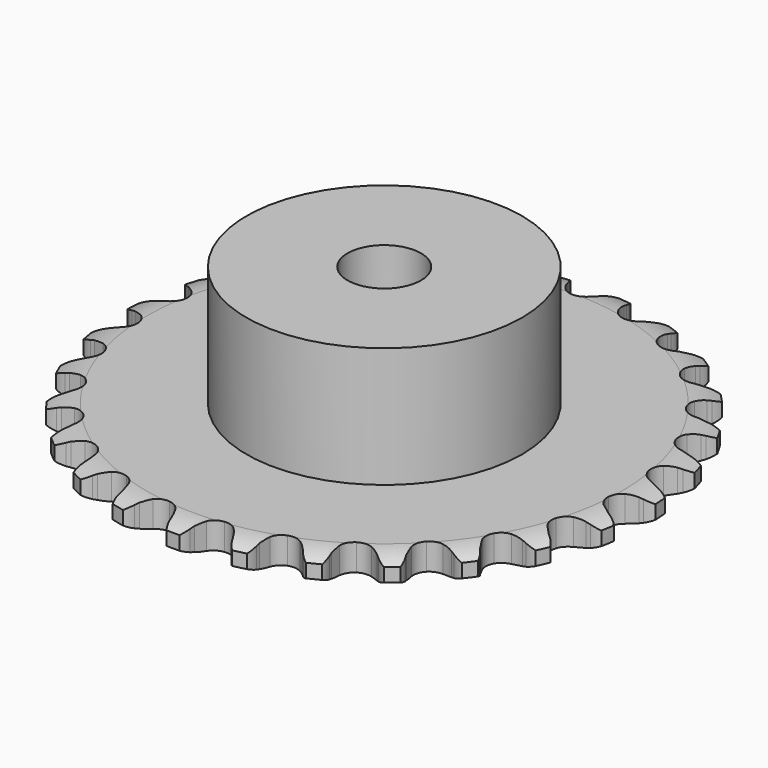
from build123d import *

# Parameters (mm, degrees)
PAD_DEPTH         = 2.9
SKETCH001_R       = 15
PAD001_DEPTH      = 16
SKETCH002_R       = 4
POCKET_DEPTH      = 0.001
POCKET_DEPTH_BACK = -16.001


with BuildPart() as part:
    # Sprocket → Pad (new body)
    with BuildSketch(Plane.XY):
        with BuildLine():
            ThreePointArc((-3.414532, 29.213188), (-2.622033, 28.621968), (-2.098723, 27.783074))
            Line((-2.098723, 27.783074), (-1.938021, 27.370818))
            ThreePointArc((-1.938021, 27.370818), (-1.680886, 26.826297), (-1.350796, 26.322648))
            ThreePointArc((-1.350796, 26.322648), (-0.753962, 25.829197), (0, 25.652434))
            ThreePointArc((0, 25.652434), (0.753962, 25.829197), (1.350796, 26.322648))
            ThreePointArc((1.350796, 26.322648), (1.680886, 26.826297), (1.938021, 27.370818))
            Line((1.938021, 27.370818), (2.098723, 27.783074))
            ThreePointArc((2.098723, 27.783074), (2.622033, 28.621968), (3.414532, 29.213188))
            ThreePointArc((3.414532, 29.213188), (4.049325, 28.455142), (4.365066, 27.518177))
            Line((4.365066, 27.518177), (4.426363, 27.079972))
            ThreePointArc((4.426363, 27.079972), (4.550992, 26.490829), (4.756036, 25.924633))
            ThreePointArc((4.756036, 25.924633), (5.222984, 25.306843), (5.915858, 24.960969))
            ThreePointArc((5.915858, 24.960969), (6.690262, 24.959092), (7.384805, 25.301603))
            Line((7.384805, 25.301603), (8.197927, 26.186095))
            ThreePointArc((8.197927, 26.186095), (8.319001, 26.371346), (8.449369, 26.550179))
            ThreePointArc((8.449369, 26.550179), (9.152036, 27.245777), (10.059518, 27.638298))
            ThreePointArc((10.059518, 27.638298), (10.502382, 26.754291), (10.593534, 25.769767))
            Line((10.593534, 25.769767), (10.552121, 25.329238))
            ThreePointArc((10.552121, 25.329238), (10.537526, 24.727235), (10.606468, 24.129013))
            ThreePointArc((10.606468, 24.129013), (10.918357, 23.420191), (11.512791, 22.923852))
            ThreePointArc((11.512791, 22.923852), (12.265888, 22.743436), (13.020698, 22.916541))
            Line((13.020698, 22.916541), (14.01588, 23.589674))
            ThreePointArc((14.01588, 23.589674), (14.176412, 23.74201), (14.344508, 23.885957))
            ThreePointArc((14.344508, 23.885957), (15.18865, 24.400759), (16.162192, 24.573419))
            ThreePointArc((16.162192, 24.573419), (16.389253, 23.61111), (16.250901, 22.632103))
            Line((16.250901, 22.632103), (16.109012, 22.212999))
            ThreePointArc((16.109012, 22.212999), (15.955978, 21.630588), (15.885103, 21.032593))
            ThreePointArc((15.885103, 21.032593), (16.025119, 20.27095), (16.489067, 19.650904))
            ThreePointArc((16.489067, 19.650904), (17.180256, 19.301675), (17.954642, 19.296044))
            Line((17.954642, 19.296044), (19.078233, 19.721527))
            ThreePointArc((19.078233, 19.721527), (19.26957, 19.832735), (19.466331, 19.934037))
            ThreePointArc((19.466331, 19.934037), (20.40644, 20.240289), (21.393559, 20.183782))
            ThreePointArc((21.393559, 20.183782), (21.392575, 19.195048), (21.032178, 18.274336))
            Line((21.032178, 18.274336), (20.797461, 17.899251))
            ThreePointArc((20.797461, 17.899251), (20.514239, 17.367831), (20.307367, 16.8023))
            ThreePointArc((20.307367, 16.8023), (20.267963, 16.028897), (20.576412, 15.318571))
            ThreePointArc((20.576412, 15.318571), (21.168433, 14.819356), (21.920646, 14.635291))
            Line((21.920646, 14.635291), (23.112074, 14.790187))
            ThreePointArc((23.112074, 14.790187), (23.323899, 14.854272), (23.538719, 14.907467))
            ThreePointArc((23.538719, 14.907467), (24.524114, 14.988661), (25.471593, 14.706031))
            ThreePointArc((25.471593, 14.706031), (25.242618, 13.744175), (24.679605, 12.931395))
            Line((24.679605, 12.931395), (24.364715, 12.620549))
            ThreePointArc((24.364715, 12.620549), (23.966573, 12.16877), (23.634857, 11.666191))
            ThreePointArc((23.634857, 11.666191), (23.418155, 10.922722), (23.554478, 10.16041))
            ThreePointArc((23.554478, 10.16041), (24.015414, 9.538122), (24.704902, 9.185546))
            Line((24.704902, 9.185546), (25.899937, 9.061505))
            ThreePointArc((25.899937, 9.061505), (26.120832, 9.075012), (26.342128, 9.077232))
            ThreePointArc((26.342128, 9.077232), (27.319686, 8.92899), (28.176447, 8.435474))
            ThreePointArc((28.176447, 8.435474), (27.731825, 7.552351), (26.996548, 6.891319))
            Line((26.996548, 6.891319), (26.618459, 6.661471))
            ThreePointArc((26.618459, 6.661471), (26.126862, 6.313687), (25.688185, 5.901154))
            ThreePointArc((25.688185, 5.901154), (25.305869, 5.227701), (25.262716, 4.454498))
            ThreePointArc((25.262716, 4.454498), (25.567717, 3.742685), (26.157311, 3.240606))
            Line((26.157311, 3.240606), (27.291527, 2.844314))
            ThreePointArc((27.291527, 2.844314), (27.509583, 2.806516), (27.725426, 2.757642))
            ThreePointArc((27.725426, 2.757642), (28.642447, 2.387954), (29.362302, 1.710159))
            ThreePointArc((29.362302, 1.710159), (28.726002, 0.953377), (27.8581, 0.47973))
            Line((27.8581, 0.47973), (27.437196, 0.343271))
            ThreePointArc((27.437196, 0.343271), (26.878646, 0.118232), (26.356656, -0.182016))
            ThreePointArc((26.356656, -0.182016), (25.829337, -0.749148), (25.609034, -1.491556))
            ThreePointArc((25.609034, -1.491556), (25.741659, -2.254521), (26.199572, -2.879036))
            Line((26.199572, -2.879036), (27.211825, -3.526214))
            ThreePointArc((27.211825, -3.526214), (27.415286, -3.613281), (27.61404, -3.710614))
            ThreePointArc((27.61404, -3.710614), (28.421087, -4.281816), (28.965227, -5.107351))
            ThreePointArc((28.965227, -5.107351), (28.171553, -5.696993), (27.217814, -5.957721))
            Line((27.217814, -5.957721), (26.776787, -5.993435))
            ThreePointArc((26.776787, -5.993435), (26.181394, -6.083598), (25.604233, -6.255372))
            ThreePointArc((25.604233, -6.255372), (24.960338, -6.685609), (24.574762, -7.357201))
            ThreePointArc((24.574762, -7.357201), (24.527861, -8.130185), (24.829408, -8.843469))
            Line((24.829408, -8.843469), (25.665125, -9.706643))
            ThreePointArc((25.665125, -9.706643), (25.843023, -9.838284), (26.013973, -9.97883))
            ThreePointArc((26.013973, -9.97883), (26.667538, -10.720753), (27.006629, -11.649523))
            ThreePointArc((27.006629, -11.649523), (26.098368, -12.040237), (25.11021, -12.07399))
            Line((25.11021, -12.07399), (24.672834, -12.007033))
            ThreePointArc((24.672834, -12.007033), (24.072697, -11.957459), (23.47148, -11.991501))
            ThreePointArc((23.47148, -11.991501), (22.745722, -12.261648), (22.215659, -12.826217))
            ThreePointArc((22.215659, -12.826217), (21.99176, -13.567549), (22.120684, -14.331147))
            Line((22.120684, -14.331147), (22.734813, -15.363784))
            ThreePointArc((22.734813, -15.363784), (22.877557, -15.532903), (23.011487, -15.709085))
            ThreePointArc((23.011487, -15.709085), (23.476335, -16.581731), (23.592097, -17.563666))
            ThreePointArc((23.592097, -17.563666), (22.618213, -17.734389), (21.648907, -17.539347))
            Line((21.648907, -17.539347), (21.238762, -17.373329))
            ThreePointArc((21.238762, -17.373329), (20.666235, -17.18669), (20.073373, -17.081164))
            ThreePointArc((20.073373, -17.081164), (19.304877, -17.176658), (18.658904, -17.603768))
            ThreePointArc((18.658904, -17.603768), (18.270077, -18.273483), (18.219428, -19.04623))
            Line((18.219428, -19.04623), (18.57886, -20.19266))
            ThreePointArc((18.57886, -20.19266), (18.678755, -20.39014), (18.768445, -20.592458))
            ThreePointArc((18.768445, -20.592458), (19.019517, -21.548784), (18.905709, -22.530947))
            ThreePointArc((18.905709, -22.530947), (17.918705, -22.472475), (17.020506, -22.059153))
            Line((17.020506, -22.059153), (16.659703, -21.803024))
            ThreePointArc((16.659703, -21.803024), (16.145651, -21.489382), (15.593105, -21.249977))
            ThreePointArc((15.593105, -21.249977), (14.823302, -21.16567), (14.096243, -21.432296))
            ThreePointArc((14.096243, -21.432296), (13.563449, -21.994288), (13.335958, -22.734526))
            Line((13.335958, -22.734526), (13.421317, -23.932945))
            ThreePointArc((13.421317, -23.932945), (13.472977, -24.148138), (13.513591, -24.365687))
            ThreePointArc((13.513591, -24.365687), (13.537352, -25.354136), (13.200109, -26.283579))
            ThreePointArc((13.200109, -26.283579), (12.253195, -25.999064), (11.474525, -25.389745))
            Line((11.474525, -25.389745), (11.182515, -25.057313))
            ThreePointArc((11.182515, -25.057313), (10.75465, -24.633576), (10.272209, -24.273199))
            ThreePointArc((10.272209, -24.273199), (9.542598, -24.013635), (8.773649, -24.105403))
            ThreePointArc((8.773649, -24.105403), (8.125613, -24.529376), (7.733543, -25.197197))
            Line((7.733543, -25.197197), (7.540227, -26.382998))
            ThreePointArc((7.540227, -26.382998), (7.540867, -26.604304), (7.530217, -26.825356))
            ThreePointArc((7.530217, -26.825356), (7.325385, -27.79264), (6.782888, -28.619256))
            ThreePointArc((6.782888, -28.619256), (5.927111, -28.124037), (5.30995, -27.351568))
            Line((5.30995, -27.351568), (5.102475, -26.960755))
            ThreePointArc((5.102475, -26.960755), (4.783863, -26.449768), (4.397535, -25.987846))
            ThreePointArc((4.397535, -25.987846), (3.747451, -25.567019), (2.978066, -25.478981))
            ThreePointArc((2.978066, -25.478981), (2.249723, -25.742079), (1.714211, -26.301482))
            Line((1.714211, -26.301482), (1.252641, -27.410736))
            ThreePointArc((1.252641, -27.410736), (1.202228, -27.626226), (1.140886, -27.838862))
            ThreePointArc((1.140886, -27.838862), (0.718504, -28.732836), (0, -29.412062))
            ThreePointArc((0, -29.412062), (-0.718504, -28.732836), (-1.140886, -27.838862))
            Line((-1.140886, -27.838862), (-1.252641, -27.410736))
            ThreePointArc((-1.252641, -27.410736), (-1.444823, -26.840046), (-1.714211, -26.301482))
            ThreePointArc((-1.714211, -26.301482), (-2.249723, -25.742079), (-2.978066, -25.478981))
            ThreePointArc((-2.978066, -25.478981), (-3.747451, -25.567019), (-4.397535, -25.987846))
            Line((-4.397535, -25.987846), (-5.102475, -26.960755))
            ThreePointArc((-5.102475, -26.960755), (-5.201225, -27.15881), (-5.30995, -27.351568))
            ThreePointArc((-5.30995, -27.351568), (-5.927111, -28.124037), (-6.782888, -28.619256))
            ThreePointArc((-6.782888, -28.619256), (-7.325385, -27.79264), (-7.530217, -26.825356))
            Line((-7.530217, -26.825356), (-7.540227, -26.382998))
            ThreePointArc((-7.540227, -26.382998), (-7.595618, -25.78337), (-7.733543, -25.197197))
            ThreePointArc((-7.733543, -25.197197), (-8.125613, -24.529376), (-8.773649, -24.105403))
            ThreePointArc((-8.773649, -24.105403), (-9.542598, -24.013635), (-10.272209, -24.273199))
            Line((-10.272209, -24.273199), (-11.182515, -25.057313))
            ThreePointArc((-11.182515, -25.057313), (-11.324278, -25.227256), (-11.474525, -25.389745))
            ThreePointArc((-11.474525, -25.389745), (-12.253195, -25.999064), (-13.200109, -26.283579))
            ThreePointArc((-13.200109, -26.283579), (-13.537352, -25.354136), (-13.513591, -24.365687))
            Line((-13.513591, -24.365687), (-13.421317, -23.932945))
            ThreePointArc((-13.421317, -23.932945), (-13.336931, -23.336706), (-13.335958, -22.734526))
            ThreePointArc((-13.335958, -22.734526), (-13.563449, -21.994288), (-14.096243, -21.432296))
            ThreePointArc((-14.096243, -21.432296), (-14.823302, -21.16567), (-15.593105, -21.249977))
            Line((-15.593105, -21.249977), (-16.659703, -21.803024))
            ThreePointArc((-16.659703, -21.803024), (-16.836836, -21.935694), (-17.020506, -22.059153))
            ThreePointArc((-17.020506, -22.059153), (-17.918705, -22.472475), (-18.905709, -22.530947))
            ThreePointArc((-18.905709, -22.530947), (-19.019517, -21.548784), (-18.768445, -20.592458))
            Line((-18.768445, -20.592458), (-18.57886, -20.19266))
            ThreePointArc((-18.57886, -20.19266), (-18.359247, -19.631954), (-18.219428, -19.04623))
            ThreePointArc((-18.219428, -19.04623), (-18.270077, -18.273483), (-18.658904, -17.603768))
            ThreePointArc((-18.658904, -17.603768), (-19.304877, -17.176658), (-20.073373, -17.081164))
            Line((-20.073373, -17.081164), (-21.238762, -17.373329))
            ThreePointArc((-21.238762, -17.373329), (-21.441716, -17.461573), (-21.648907, -17.539347))
            ThreePointArc((-21.648907, -17.539347), (-22.618213, -17.734389), (-23.592097, -17.563666))
            ThreePointArc((-23.592097, -17.563666), (-23.476335, -16.581731), (-23.011487, -15.709085))
            Line((-23.011487, -15.709085), (-22.734813, -15.363784))
            ThreePointArc((-22.734813, -15.363784), (-22.391812, -14.868838), (-22.120684, -14.331147))
            ThreePointArc((-22.120684, -14.331147), (-21.99176, -13.567549), (-22.215659, -12.826217))
            ThreePointArc((-22.215659, -12.826217), (-22.745722, -12.261648), (-23.47148, -11.991501))
            Line((-23.47148, -11.991501), (-24.672834, -12.007033))
            ThreePointArc((-24.672834, -12.007033), (-24.890667, -12.046094), (-25.11021, -12.07399))
            ThreePointArc((-25.11021, -12.07399), (-26.098368, -12.040237), (-27.006629, -11.649523))
            ThreePointArc((-27.006629, -11.649523), (-26.667538, -10.720753), (-26.013973, -9.97883))
            Line((-26.013973, -9.97883), (-25.665125, -9.706643))
            ThreePointArc((-25.665125, -9.706643), (-25.217227, -9.30414), (-24.829408, -8.843469))
            ThreePointArc((-24.829408, -8.843469), (-24.527861, -8.130185), (-24.574762, -7.357201))
            ThreePointArc((-24.574762, -7.357201), (-24.960338, -6.685609), (-25.604233, -6.255372))
            Line((-25.604233, -6.255372), (-26.776787, -5.993435))
            ThreePointArc((-26.776787, -5.993435), (-26.997756, -5.981207), (-27.217814, -5.957721))
            ThreePointArc((-27.217814, -5.957721), (-28.171553, -5.696993), (-28.965227, -5.107351))
            ThreePointArc((-28.965227, -5.107351), (-28.421087, -4.281816), (-27.61404, -3.710614))
            Line((-27.61404, -3.710614), (-27.211825, -3.526214))
            ThreePointArc((-27.211825, -3.526214), (-26.683176, -3.237852), (-26.199572, -2.879036))
            ThreePointArc((-26.199572, -2.879036), (-25.741659, -2.254521), (-25.609034, -1.491556))
            ThreePointArc((-25.609034, -1.491556), (-25.829337, -0.749148), (-26.356656, -0.182016))
            Line((-26.356656, -0.182016), (-27.437196, 0.343271))
            ThreePointArc((-27.437196, 0.343271), (-27.64939, 0.406129), (-27.8581, 0.47973))
            ThreePointArc((-27.8581, 0.47973), (-28.726002, 0.953377), (-29.362302, 1.710159))
            ThreePointArc((-29.362302, 1.710159), (-28.642447, 2.387954), (-27.725426, 2.757642))
            Line((-27.725426, 2.757642), (-27.291527, 2.844314))
            ThreePointArc((-27.291527, 2.844314), (-26.710628, 3.002988), (-26.157311, 3.240606))
            ThreePointArc((-26.157311, 3.240606), (-25.567717, 3.742685), (-25.262716, 4.454498))
            ThreePointArc((-25.262716, 4.454498), (-25.305869, 5.227701), (-25.688185, 5.901154))
            Line((-25.688185, 5.901154), (-26.618459, 6.661471))
            ThreePointArc((-26.618459, 6.661471), (-26.810437, 6.771569), (-26.996548, 6.891319))
            ThreePointArc((-26.996548, 6.891319), (-27.731825, 7.552351), (-28.176447, 8.435474))
            ThreePointArc((-28.176447, 8.435474), (-27.319686, 8.92899), (-26.342128, 9.077232))
            Line((-26.342128, 9.077232), (-25.899937, 9.061505))
            ThreePointArc((-25.899937, 9.061505), (-25.298103, 9.081937), (-24.704902, 9.185546))
            ThreePointArc((-24.704902, 9.185546), (-24.015414, 9.538122), (-23.554478, 10.16041))
            ThreePointArc((-23.554478, 10.16041), (-23.418155, 10.922722), (-23.634857, 11.666191))
            Line((-23.634857, 11.666191), (-24.364715, 12.620549))
            ThreePointArc((-24.364715, 12.620549), (-24.526127, 12.771953), (-24.679605, 12.931395))
            ThreePointArc((-24.679605, 12.931395), (-25.242618, 13.744175), (-25.471593, 14.706031))
            ThreePointArc((-25.471593, 14.706031), (-24.524114, 14.988661), (-23.538719, 14.907467))
            Line((-23.538719, 14.907467), (-23.112074, 14.790187))
            ThreePointArc((-23.112074, 14.790187), (-22.52175, 14.671276), (-21.920646, 14.635291))
            ThreePointArc((-21.920646, 14.635291), (-21.168433, 14.819356), (-20.576412, 15.318571))
            ThreePointArc((-20.576412, 15.318571), (-20.267963, 16.028897), (-20.307367, 16.8023))
            Line((-20.307367, 16.8023), (-20.797461, 17.899251))
            ThreePointArc((-20.797461, 17.899251), (-20.919607, 18.083798), (-21.032178, 18.274336))
            ThreePointArc((-21.032178, 18.274336), (-21.392575, 19.195048), (-21.393559, 20.183782))
            ThreePointArc((-21.393559, 20.183782), (-20.40644, 20.240289), (-19.466331, 19.934037))
            Line((-19.466331, 19.934037), (-19.078233, 19.721527))
            ThreePointArc((-19.078233, 19.721527), (-18.531244, 19.469683), (-17.954642, 19.296044))
            ThreePointArc((-17.954642, 19.296044), (-17.180256, 19.301675), (-16.489067, 19.650904))
            ThreePointArc((-16.489067, 19.650904), (-16.025119, 20.27095), (-15.885103, 21.032593))
            Line((-15.885103, 21.032593), (-16.109012, 22.212999))
            ThreePointArc((-16.109012, 22.212999), (-16.185306, 22.42074), (-16.250901, 22.632103))
            ThreePointArc((-16.250901, 22.632103), (-16.389253, 23.61111), (-16.162192, 24.573419))
            ThreePointArc((-16.162192, 24.573419), (-15.18865, 24.400759), (-14.344508, 23.885957))
            Line((-14.344508, 23.885957), (-14.01588, 23.589674))
            ThreePointArc((-14.01588, 23.589674), (-13.541714, 23.218474), (-13.020698, 22.916541))
            ThreePointArc((-13.020698, 22.916541), (-12.265888, 22.743436), (-11.512791, 22.923852))
            ThreePointArc((-11.512791, 22.923852), (-10.918357, 23.420191), (-10.606468, 24.129013))
            Line((-10.606468, 24.129013), (-10.552121, 25.329238))
            ThreePointArc((-10.552121, 25.329238), (-10.57845, 25.548974), (-10.593534, 25.769767))
            ThreePointArc((-10.593534, 25.769767), (-10.502382, 26.754291), (-10.059518, 27.638298))
            ThreePointArc((-10.059518, 27.638298), (-9.152036, 27.245777), (-8.449369, 26.550179))
            Line((-8.449369, 26.550179), (-8.197927, 26.186095))
            ThreePointArc((-8.197927, 26.186095), (-7.822147, 25.715551), (-7.384805, 25.301603))
            ThreePointArc((-7.384805, 25.301603), (-6.690262, 24.959092), (-5.915858, 24.960969))
            ThreePointArc((-5.915858, 24.960969), (-5.222984, 25.306843), (-4.756036, 25.924633))
            Line((-4.756036, 25.924633), (-4.426363, 27.079972))
            ThreePointArc((-4.426363, 27.079972), (-4.401308, 27.299857), (-4.365066, 27.518177))
            ThreePointArc((-4.365066, 27.518177), (-4.049325, 28.455142), (-3.414532, 29.213188))
        make_face()
    extrude(amount=PAD_DEPTH)

    # Sketch → Groove (revolve, cut)
    with BuildSketch(Plane.XZ):
        with BuildLine():
            Line((25.839674, 0), (28.75, 0))
            Line((31.660326, 0), (28.75, 0))
            Line((31.660326, 2.9), (31.660326, 0))
            Line((28.75, 2.9), (31.660326, 2.9))
            Line((25.839674, 2.9), (28.75, 2.9))
            ThreePointArc((28.75, 2.2), (27.336337, 2.72254), (25.839674, 2.9))
            Line((28.75, 0.7), (28.75, 2.2))
            ThreePointArc((25.839674, 0), (27.336337, 0.17746), (28.75, 0.7))
        make_face()
    revolve(axis=Axis((0, 0, 0), (0, 0, 1)), mode=Mode.SUBTRACT)

    # Sketch001 → Pad001 (join)
    with BuildSketch(Plane.XY):
        Circle(SKETCH001_R)
    extrude(amount=PAD001_DEPTH)

    # Sketch002 → Pocket (cut, two sides)
    with BuildSketch(Plane.XY) as pocket_sk:
        Circle(SKETCH002_R)
    extrude(amount=-POCKET_DEPTH, mode=Mode.SUBTRACT)
    extrude(pocket_sk.sketch, amount=-POCKET_DEPTH_BACK, mode=Mode.SUBTRACT)


solid = part.part
